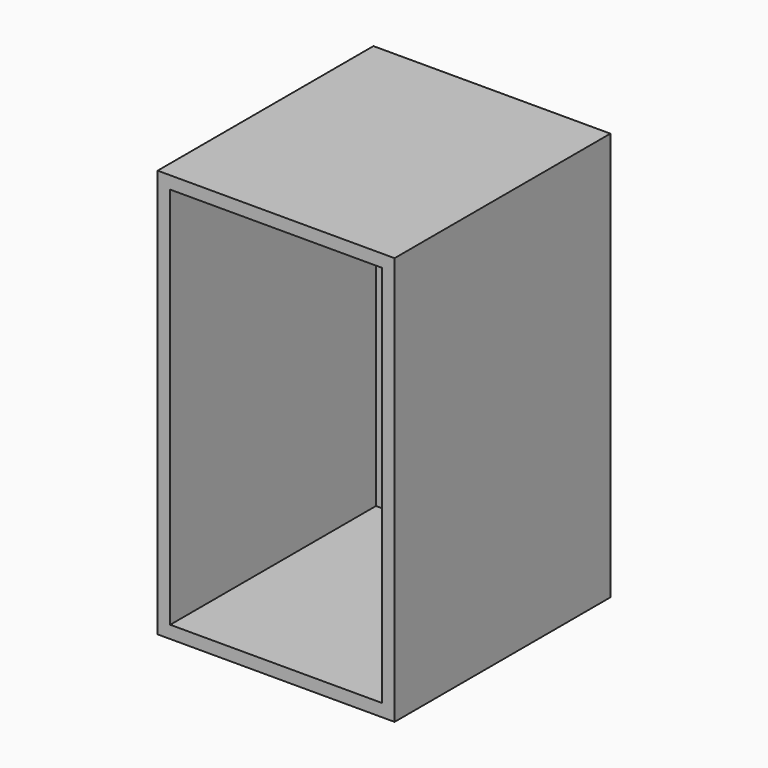
from build123d import *

# Parameters (mm, degrees)
F0_W     = 55.2740842104
F0_H     = 94.0575622953
F1_DEPTH = 381
F2_DEPTH = 279.4
F3_W     = 334.6740842104
F3_H     = 381
F4_DEPTH = 482.6
F5_T     = -17.78


with BuildPart() as f1:
    # F0 (on Front) → F1 (new body)
    with BuildSketch(Plane.XZ):
        with Locations((0, -3.2065075357)):
            Rectangle(F0_W, F0_H)
    extrude(amount=F1_DEPTH)

    # F2 (add): a face of the model
    f2_faces = [f1.faces().sort_by_distance(p)[0] for p in [
        (-27.6370421052, -190.5, -3.2065075357),
    ]]
    extrude(f2_faces, amount=F2_DEPTH)

    # F3 (on face) → F4 (join)
    with BuildSketch(Plane.XY.offset(43.822273612)):
        with Locations((-139.7, -190.5)):
            Rectangle(F3_W, F3_H)
    extrude(amount=F4_DEPTH)

    # F5
    f5_openings = [f1.faces().sort_by_distance(p)[0] for p in [
        (-139.7, -381, 238.093492),
    ]]
    offset(amount=F5_T, openings=f5_openings)


solid = f1.part
